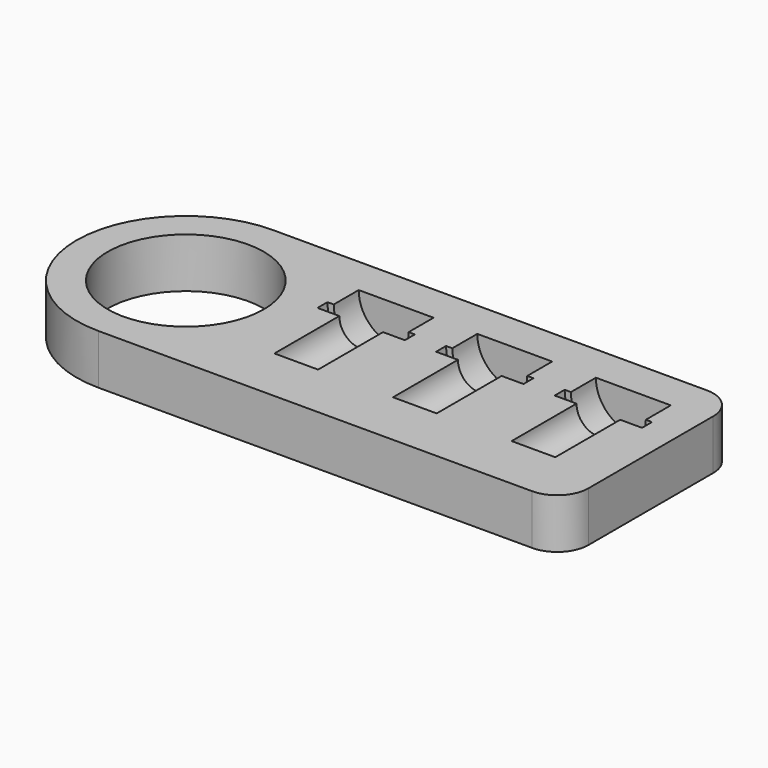
from build123d import *

# Parameters (mm, degrees)
F0_R     = 12.5
F1_DEPTH = 8


with BuildPart() as f1:
    # F0 (on Top) → F1 (new body)
    with BuildSketch(Plane.XY):
        with BuildLine():
            ThreePointArc((0, 17.5), (5.125631, 5.125631), (17.5, 0))
            Line((17.5, 0), (87, 0))
            ThreePointArc((87, 0), (90.535534, 1.464466), (92, 5))
            Line((92, 5), (92, 30))
            ThreePointArc((92, 30), (90.535534, 33.535534), (87, 35))
            Line((87, 35), (17.5, 35))
            ThreePointArc((17.5, 35), (5.125631, 29.874369), (0, 17.5))
        make_face()
        with Locations((17.5, 17.5)):
            Circle(F0_R, mode=Mode.SUBTRACT)
    extrude(amount=F1_DEPTH)

    # F2 (on face) → F3 (revolve, cut)
    with BuildSketch(Plane.XY.offset(8)):
        Polygon((42, 22), (42, 9), (45.5, 9), (45.5, 22), (49, 22), (49, 24), (48, 24), (48, 29), (42, 29), (42, 24), align=None)
    revolve(axis=Axis((42, 15.5, 8), (0, 1, 0)), mode=Mode.SUBTRACT)

    # F2 (on face) → F4 (revolve, cut)
    with BuildSketch(Plane.XY.offset(8)):
        Polygon((61, 22), (61, 9), (64.5, 9), (64.5, 22), (68, 22), (68, 24), (67, 24), (67, 29), (61, 29), (61, 24), align=None)
    revolve(axis=Axis((61, 15.5, 8), (0, 1, 0)), mode=Mode.SUBTRACT)

    # F2 (on face) → F5 (revolve, cut)
    with BuildSketch(Plane.XY.offset(8)):
        Polygon((80, 22), (80, 9), (83.5, 9), (83.5, 22), (87, 22), (87, 24), (86, 24), (86, 29), (80, 29), (80, 24), align=None)
    revolve(axis=Axis((80, 15.5, 8), (0, 1, 0)), mode=Mode.SUBTRACT)


solid = f1.part
